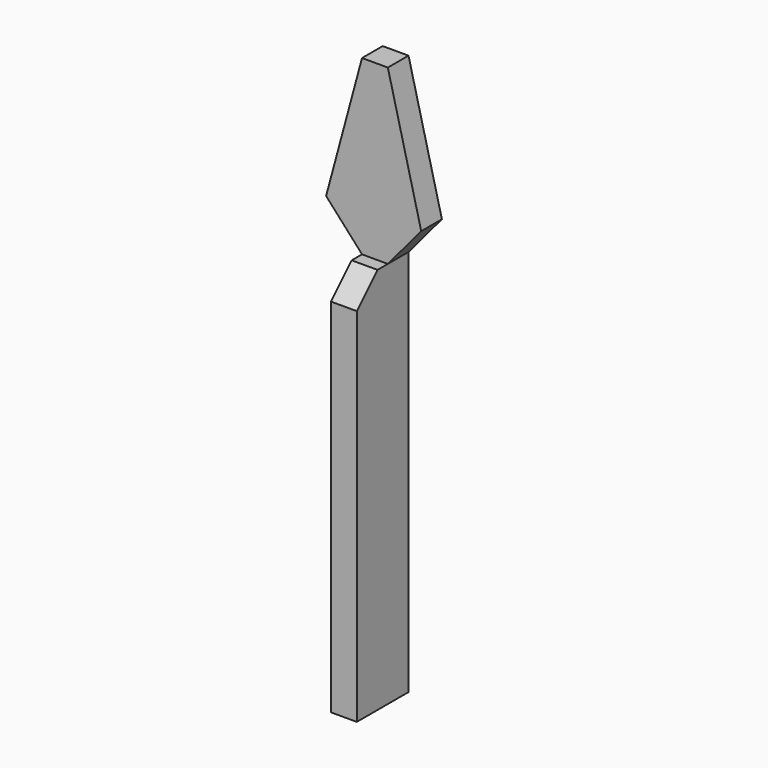
from build123d import *

# Parameters (mm, degrees)
F0_W     = 5.08
F0_H     = 76.2
F1_DEPTH = 12.7
F2_DEPTH = 5.08
F3_SIZE  = 5.08


with BuildPart() as f1:
    # F0 (on Front) → F1 (new body)
    with BuildSketch(Plane.XZ):
        with Locations((-42.778187, -2.446348)):
            Rectangle(F0_W, F0_H)
    extrude(amount=F1_DEPTH)

    # F0 (on Front) → F2 (join)
    with BuildSketch(Plane.XZ):
        with Locations((-42.778187, -2.446348)):
            Rectangle(F0_W, F0_H)
        Polygon((-52.380648, 43.458667), (-45.318187, 35.653652), (-40.238187, 35.653652), (-33.673275, 43.458667), (-40.238187, 69.648996), (-45.318187, 69.648996), align=None)
    extrude(amount=F2_DEPTH)

    # F3
    f3_edges = [f1.edges().sort_by_distance(p)[0] for p in [
        (-42.778187, -12.7, 35.653652),
    ]]
    chamfer(f3_edges, length=F3_SIZE)


solid = f1.part
